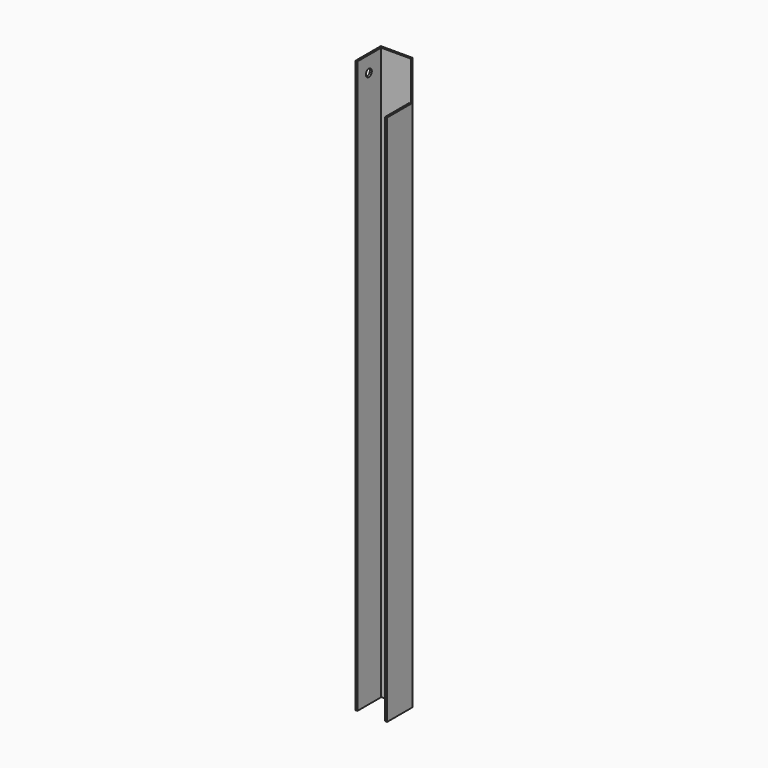
from build123d import *

# Parameters (mm, degrees)
F1_DEPTH = 914.4
F2_R     = 6
F3_DEPTH = 3.175
F4_W     = 47.625
F4_H     = 63.5
F5_DEPTH = 25.4
F6_R     = 6.35
F7_DEPTH = 25.4


with BuildPart() as f1:
    # F0 (on Top) → F1 (new body)
    with BuildSketch(Plane.XY):
        Polygon((22.225, -25.4), (25.4, -25.4), (25.4, 25.4), (-25.4, 25.4), (-25.4, -25.4), (-22.225, -25.4), (-22.225, 22.225), (22.225, 22.225), align=None)
    extrude(amount=F1_DEPTH)

    # F2 (on face) → F3 (cut, through all)
    with BuildSketch(Plane(origin=(-25.4, 0, 0), x_dir=(0, -1, 0), z_dir=(-1, 0, 0))):
        with Locations((2.54, 889)):
            Circle(F2_R)
    extrude(amount=-F3_DEPTH, mode=Mode.SUBTRACT)

    # F4 (on face) → F5 (cut)
    with BuildSketch(Plane.YZ.offset(25.4)):
        with Locations((-1.5875, 882.65)):
            Rectangle(F4_W, F4_H)
    extrude(amount=-F5_DEPTH, mode=Mode.SUBTRACT)

    # F6 (on face) → F7 (cut)
    with BuildSketch(Plane(origin=(0, 25.4, 0), x_dir=(-1, 0, 0), z_dir=(0, 1, 0))):
        with Locations((0, 152.4)):
            Circle(F6_R)
    extrude(amount=-F7_DEPTH, mode=Mode.SUBTRACT)


solid = f1.part
